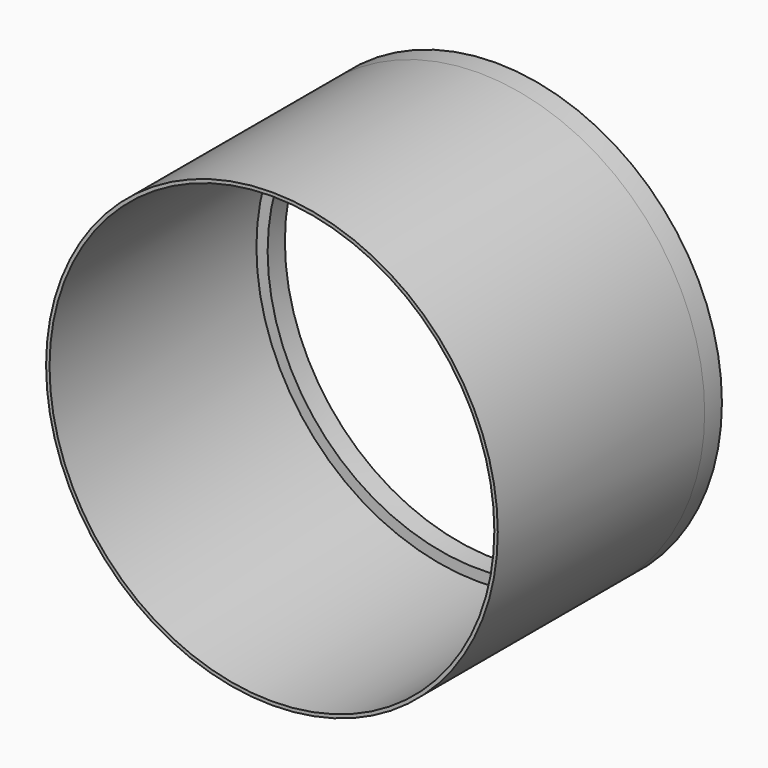
from build123d import *

# Parameters (mm, degrees)
F0_R     = 33.274
F0_R_2   = 32.766
F1_DEPTH = 38.1
F2_R     = 33.274
F2_R_2   = 31.115
F3_DEPTH = 3.175


with BuildPart() as f1:
    # F0 (on Front) → F1 (new body)
    with BuildSketch(Plane.XZ):
        Circle(F0_R)
        Circle(F0_R_2, mode=Mode.SUBTRACT)
    extrude(amount=-F1_DEPTH)

    # F2 (on face) → F3 (join)
    with BuildSketch(Plane(origin=(0, 38.1, 0), x_dir=(-1, 0, 0), z_dir=(0, 1, 0))):
        Circle(F2_R)
        Circle(F2_R_2, mode=Mode.SUBTRACT)
    extrude(amount=F3_DEPTH)


solid = f1.part
